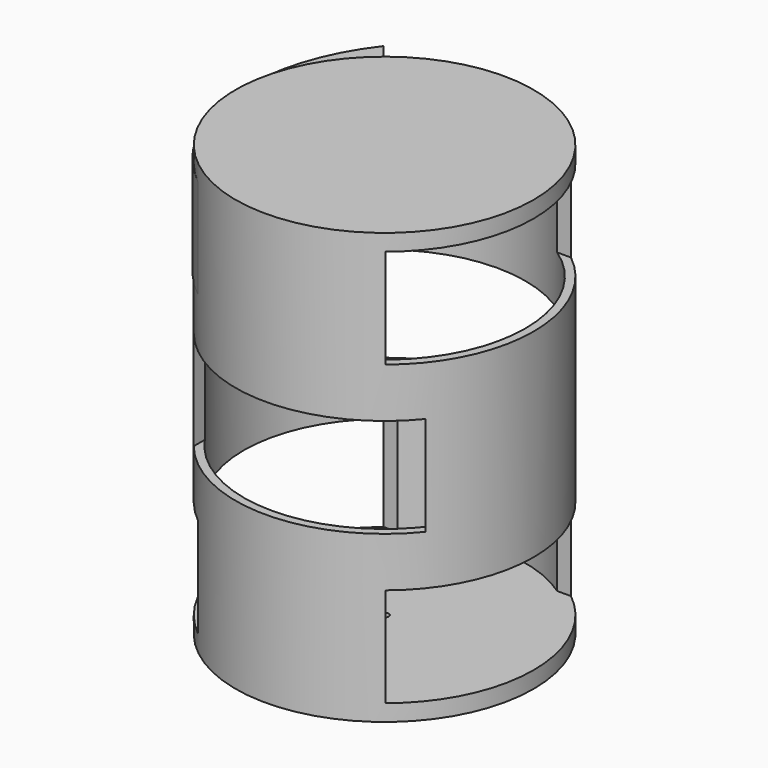
from build123d import *

# Parameters (mm, degrees)
F0_R          = 228.6
F1_DEPTH      = 330.2
F1_DEPTH_BACK = 330.2
F2_T          = -12.7
F6_W          = 355.6
F6_H          = 152.4
F7_DEPTH      = 457.2
F8_W          = 355.6
F8_H          = 152.4
F9_DEPTH      = 457.2
F10_W         = 355.6
F10_H         = 152.4
F11_DEPTH     = 457.2
F13_DEPTH     = 152.4
F14_T         = -2.54
F15_R         = 228.6
F16_DEPTH     = 25.4
F17_R         = 228.6
F18_DEPTH     = 25.4
F19_R         = 6.35
F20_DEPTH     = 25.401


with BuildPart() as f1:
    # F0 (on Top) → F1 (new body, two sides)
    with BuildSketch(Plane.XY) as f1_sk:
        Circle(F0_R)
    extrude(amount=F1_DEPTH)
    extrude(f1_sk.sketch, amount=-F1_DEPTH_BACK)

    # F2
    f2_openings = [f1.faces().sort_by_distance(p)[0] for p in [
        (0, 0, 330.2),
        (0, 0, -330.2),
    ]]
    offset(amount=F2_T, openings=f2_openings)

    # F6 (on offset) → F7 (cut)
    with BuildSketch(Plane.YZ.offset(228.6)):
        with Locations((0, -228.6)):
            Rectangle(F6_W, F6_H)
    extrude(amount=-F7_DEPTH, mode=Mode.SUBTRACT)

    # F8 (on offset) → F9 (cut)
    with BuildSketch(Plane.YZ.offset(-228.6)):
        with Locations((0, 228.6)):
            Rectangle(F8_W, F8_H)
    extrude(amount=F9_DEPTH, mode=Mode.SUBTRACT)

    # F10 (on offset) → F11 (cut)
    with BuildSketch(Plane.XZ.offset(228.6)):
        Rectangle(F10_W, F10_H)
    extrude(amount=-F11_DEPTH, mode=Mode.SUBTRACT)



with BuildPart() as f13:
    # F12 (on face) → F13 (new body)
    with BuildSketch(Plane(origin=(0, 0, 304.8), x_dir=(1, 0, 0), z_dir=(0, 0, -1))):
        with BuildLine():
            Line((-191.578797, -237.066667), (-143.684098, -177.8))
            ThreePointArc((-143.684098, -177.8), (-228.6, 0), (-143.684098, 177.8))
            ThreePointArc((-143.684098, 177.8), (-252.435804, -19.843009), (-191.578797, -237.066667))
        make_face()
    extrude(amount=F13_DEPTH)

    # F14
    f14_openings = [f13.faces().sort_by_distance(p)[0] for p in [
        (-167.631448, 207.433333, 228.6),
        (-228.6, 0, 228.6),
    ]]
    offset(amount=F14_T, openings=f14_openings)


with BuildPart() as f1_1:
    add(f1.part)

    add(f13.part)  # F16 merges F13
    # F15 (on face) → F16 (join)
    with BuildSketch(Plane.XY.offset(330.2)):
        Circle(F15_R)
    extrude(amount=-F16_DEPTH)

    # F17 (on face) → F18 (join)
    with BuildSketch(Plane(origin=(0, 0, -330.2), x_dir=(1, 0, 0), z_dir=(0, 0, -1))):
        Circle(F17_R)
    extrude(amount=-F18_DEPTH)

    # F19 (on face) → F20 (cut, through all)
    with BuildSketch(Plane.XY.offset(-304.8)):
        Circle(F19_R)
    extrude(amount=-F20_DEPTH, mode=Mode.SUBTRACT)


solid = f1_1.part
